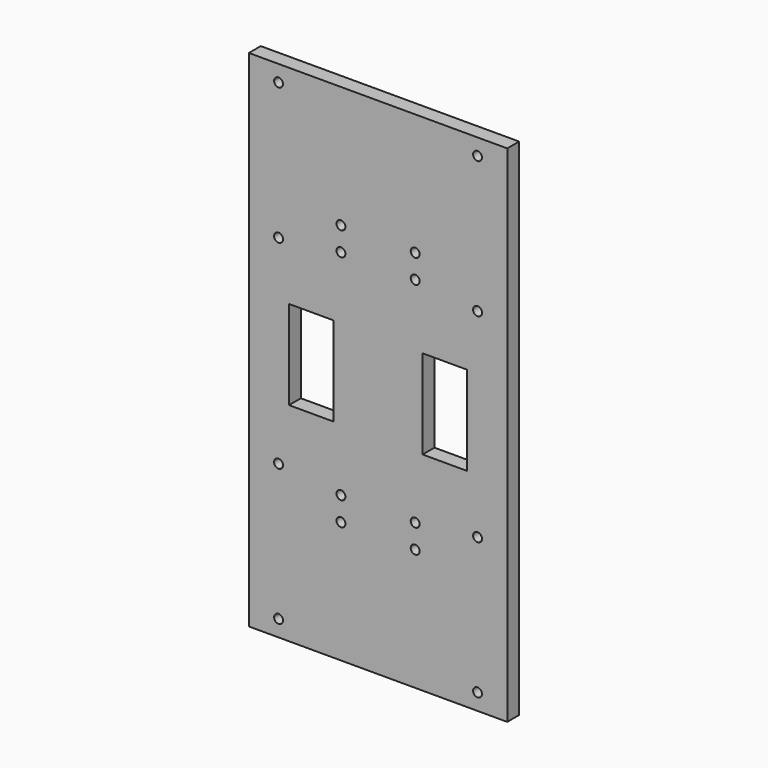
from build123d import *

# Parameters (mm, degrees)
F0_W     = 87
F0_H     = 170
F1_DEPTH = 5
F2_W     = 15
F2_H     = 30
F3_DEPTH = 25


with BuildPart() as f1:
    # F0 (on Front) → F1 (new body)
    with BuildSketch(Plane.XZ):
        with Locations((43.5, 85)):
            Rectangle(F0_W, F0_H)
    extrude(amount=F1_DEPTH)

    # F2 (on face) → F3 (cut)
    with BuildSketch(Plane.XZ.offset(5)):
        with BuildLine():
            ThreePointArc((10, 7), (8.93934, 6.56066), (8.5, 5.5))
            Line((8.5, 5.5), (10, 5.5))
            Line((10, 5.5), (10, 7))
        make_face()
        with BuildLine():
            ThreePointArc((11.5, 51.5), (8.93934, 52.56066), (10, 50))
            ThreePointArc((10, 50), (11.06066, 50.43934), (11.5, 51.5))
        make_face()
        with BuildLine():
            Line((10, 5.5), (8.5, 5.5))
            ThreePointArc((8.5, 5.5), (10, 4), (11.5, 5.5))
            ThreePointArc((11.5, 5.5), (11.06066, 6.56066), (10, 7))
            Line((10, 7), (10, 5.5))
        make_face()
        with BuildLine():
            ThreePointArc((77, 7), (75.93934, 4.43934), (78.5, 5.5))
            Line((78.5, 5.5), (77, 5.5))
            Line((77, 5.5), (77, 7))
        make_face()
        with BuildLine():
            Line((77, 5.5), (78.5, 5.5))
            ThreePointArc((78.5, 5.5), (78.06066, 6.56066), (77, 7))
            Line((77, 7), (77, 5.5))
        make_face()
        with BuildLine():
            ThreePointArc((78.5, 51.5), (75.93934, 52.56066), (77, 50))
            ThreePointArc((77, 50), (78.06066, 50.43934), (78.5, 51.5))
        make_face()
        with BuildLine():
            ThreePointArc((11.5, 164.5), (10, 166), (8.5, 164.5))
            Line((8.5, 164.5), (10, 164.5))
            Line((10, 164.5), (10, 163))
            ThreePointArc((10, 163), (11.06066, 163.43934), (11.5, 164.5))
        make_face()
        with BuildLine():
            ThreePointArc((11.5, 118.5), (11.06066, 119.56066), (10, 120))
            ThreePointArc((10, 120), (8.93934, 117.43934), (11.5, 118.5))
        make_face()
        with BuildLine():
            Line((10, 164.5), (8.5, 164.5))
            ThreePointArc((8.5, 164.5), (8.93934, 163.43934), (10, 163))
            Line((10, 163), (10, 164.5))
        make_face()
        with BuildLine():
            ThreePointArc((77, 163), (78.06066, 163.43934), (78.5, 164.5))
            Line((78.5, 164.5), (77, 164.5))
            Line((77, 164.5), (77, 163))
        make_face()
        with BuildLine():
            Line((77, 164.5), (78.5, 164.5))
            ThreePointArc((78.5, 164.5), (75.93934, 165.56066), (77, 163))
            Line((77, 163), (77, 164.5))
        make_face()
        with BuildLine():
            ThreePointArc((78.5, 118.5), (78.06066, 119.56066), (77, 120))
            ThreePointArc((77, 120), (75.93934, 117.43934), (78.5, 118.5))
        make_face()
        with Locations((66, 85)):
            Rectangle(F2_W, F2_H)
        with Locations((21, 85)):
            Rectangle(F2_W, F2_H)
        with BuildLine():
            ThreePointArc((32.5, 121), (32.06066, 122.06066), (31, 122.5))
            ThreePointArc((31, 122.5), (29.93934, 119.93934), (32.5, 121))
        make_face()
        with BuildLine():
            ThreePointArc((32.5, 129), (29.93934, 130.06066), (31, 127.5))
            ThreePointArc((31, 127.5), (32.06066, 127.93934), (32.5, 129))
        make_face()
        with BuildLine():
            ThreePointArc((57.5, 129), (54.93934, 130.06066), (56, 127.5))
            ThreePointArc((56, 127.5), (57.06066, 127.93934), (57.5, 129))
        make_face()
        with BuildLine():
            ThreePointArc((57.5, 121), (57.06066, 122.06066), (56, 122.5))
            ThreePointArc((56, 122.5), (54.93934, 119.93934), (57.5, 121))
        make_face()
        with BuildLine():
            ThreePointArc((57.5, 49), (54.93934, 50.06066), (56, 47.5))
            ThreePointArc((56, 47.5), (57.06066, 47.93934), (57.5, 49))
        make_face()
        with BuildLine():
            ThreePointArc((57.5, 41), (57.06066, 42.06066), (56, 42.5))
            ThreePointArc((56, 42.5), (54.93934, 39.93934), (57.5, 41))
        make_face()
        with BuildLine():
            ThreePointArc((32.5, 41), (32.06066, 42.06066), (31, 42.5))
            ThreePointArc((31, 42.5), (29.93934, 39.93934), (32.5, 41))
        make_face()
        with BuildLine():
            ThreePointArc((32.5, 49), (29.93934, 50.06066), (31, 47.5))
            ThreePointArc((31, 47.5), (32.06066, 47.93934), (32.5, 49))
        make_face()
    extrude(amount=-F3_DEPTH, mode=Mode.SUBTRACT)


solid = f1.part
